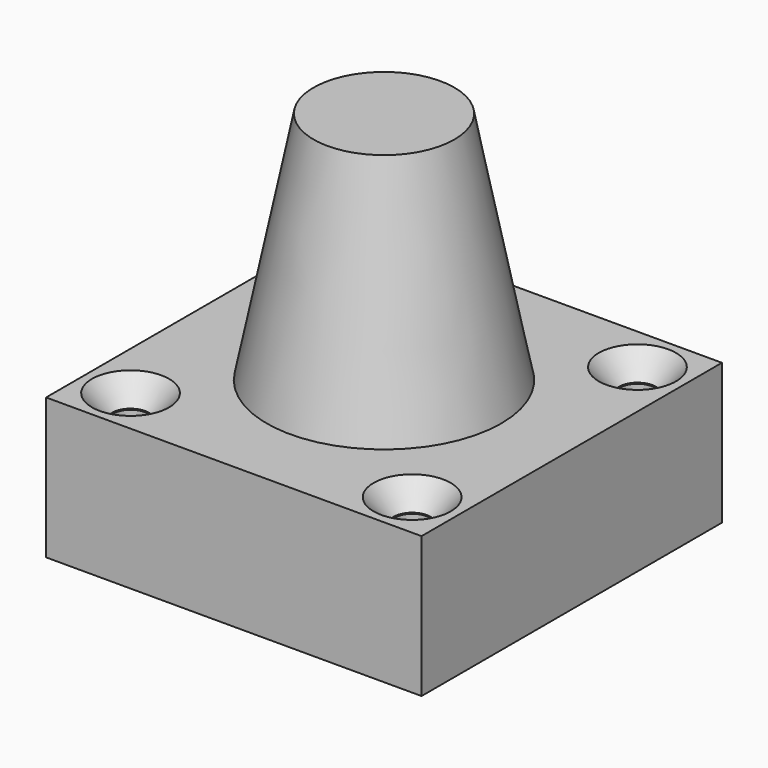
from build123d import *

# Parameters (mm, degrees)
F0_W           = 50.8
F0_H           = 50.8
F1_DEPTH       = 19.05
F4_R           = 15.875
F3_R           = 9.525
F7_D           = 4.9784
F7_CSINK_D     = 10.4394
F7_CSINK_ANGLE = 82
F8_R           = 2.794
F8_R_2         = 2.286
F9_DEPTH       = 15.875


with BuildPart() as f1:
    # F0 (on Top) → F1 (new body)
    with BuildSketch(Plane.XY):
        Rectangle(F0_W, F0_H)
    extrude(amount=F1_DEPTH)

    # F4 (on face) → F5 section 0
    with BuildSketch(Plane.XY.offset(19.05)):
        Circle(F4_R)
    # F3 (on offset) → F5 section 1
    with BuildSketch(Plane.XY.offset(50.8)):
        Circle(F3_R)
    loft()

    # F7 (through all)
    with Locations(Plane.XY.offset(19.05)):
        with Locations((-19.05, 19.05), (19.05, 19.05), (19.05, -19.05), (-19.05, -19.05)):
            CounterSinkHole(F7_D / 2, F7_CSINK_D / 2, counter_sink_angle=F7_CSINK_ANGLE)

    # F8 (on face) → F9 (join)
    with BuildSketch(Plane(origin=(0, 0, 0), x_dir=(1, 0, 0), z_dir=(0, 0, -1))):
        with Locations((19.05, -19.05)):
            Circle(F8_R)
        with Locations((19.05, -19.05)):
            Circle(F8_R_2, mode=Mode.SUBTRACT)
        with Locations((19.05, 19.05)):
            Circle(F8_R)
        with Locations((19.05, 19.05)):
            Circle(F8_R_2, mode=Mode.SUBTRACT)
        with Locations((-19.05, 19.05)):
            Circle(F8_R)
        with Locations((-19.05, 19.05)):
            Circle(F8_R_2, mode=Mode.SUBTRACT)
        with Locations((-19.05, -19.05)):
            Circle(F8_R)
        with Locations((-19.05, -19.05)):
            Circle(F8_R_2, mode=Mode.SUBTRACT)
    extrude(amount=-F9_DEPTH)


solid = f1.part
